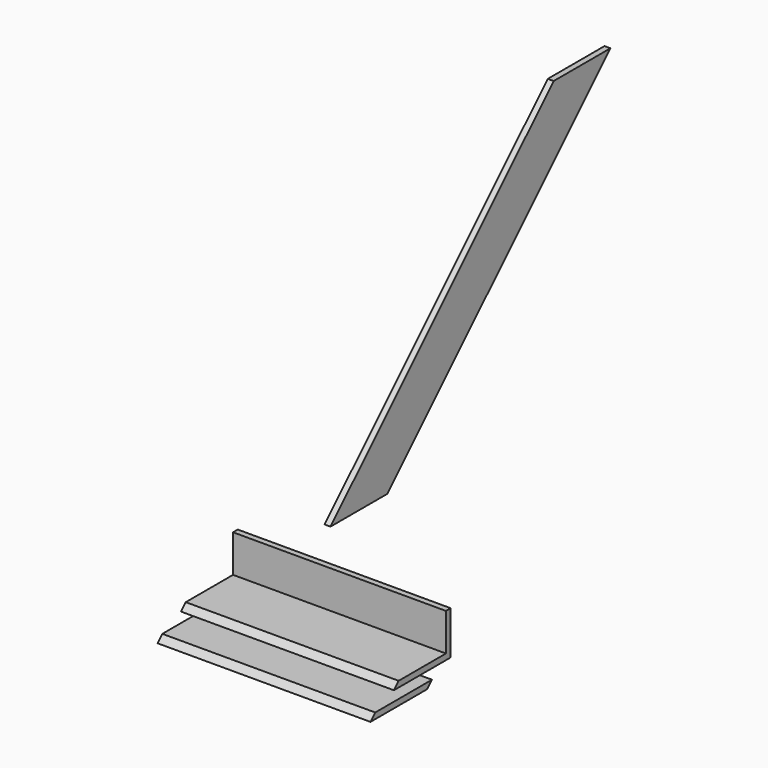
from build123d import *

# Parameters (mm, degrees)
F1_DEPTH = 25.4
F3_DEPTH = 914.4
F5_DEPTH = 914.4


with BuildPart() as f1:
    # F0 (on Right) → F1 (new body)
    with BuildSketch(Plane.YZ):
        Polygon((0, 0), (304.8, 0), (1502.719472, 1197.919472), (1197.919472, 1197.919472), align=None)
    extrude(amount=F1_DEPTH)


with BuildPart() as f3:
    # F2 (on Right) → F3 (new body)
    with BuildSketch(Plane.YZ):
        Polygon((-871.307312, -59.309483), (-896.707312, -84.709483), (-591.907312, -84.709483), (-566.507312, -59.309483), align=None)
    extrude(amount=F3_DEPTH)


with BuildPart() as f5:
    # F4 (on Right) → F5 (new body)
    with BuildSketch(Plane.YZ):
        Polygon((-745.536959, 9.317173), (-770.936959, -16.082827), (-466.136959, -16.082827), (-466.136959, 170.302373), (-491.536959, 170.302373), (-491.536959, 9.317173), align=None)
    extrude(amount=F5_DEPTH)


solid = Compound([f1.part, f3.part, f5.part])
